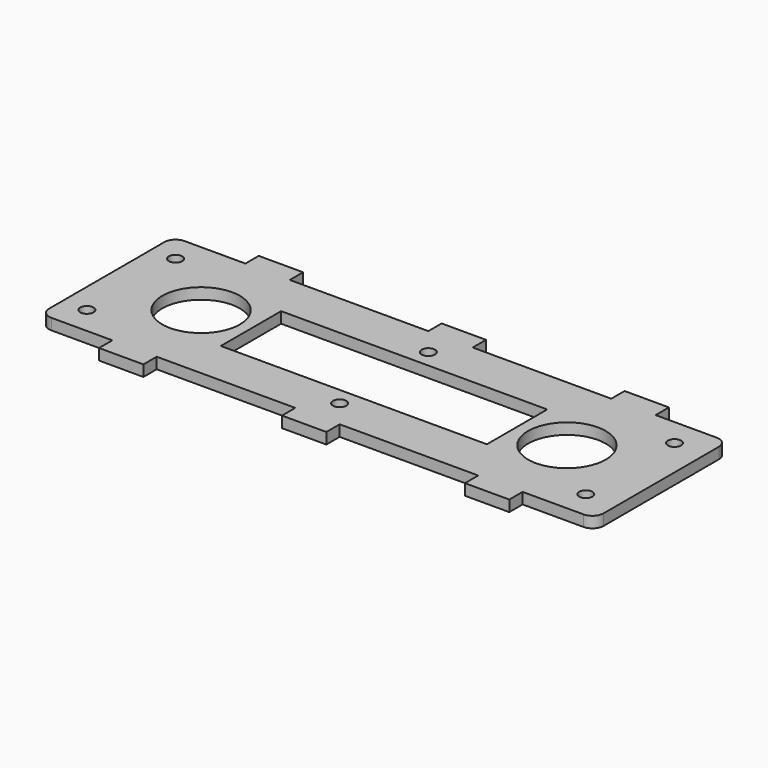
from build123d import *

# Parameters (mm, degrees)
F0_R     = 6
F0_R_2   = 35
F0_W     = 40
F0_H     = 15
F1_DEPTH = 10
F2_W     = 240
F2_H     = 68
F3_DEPTH = 25


with BuildPart() as f1:
    # F0 (on Top) → F1 (new body)
    with BuildSketch(Plane.XY):
        with BuildLine():
            ThreePointArc((0, 10), (2.928932, 2.928932), (10, 0))
            Line((10, 0), (65, 0))
            Line((65, 0), (105, 0))
            Line((105, 0), (230, 0))
            Line((230, 0), (270, 0))
            Line((270, 0), (395, 0))
            Line((395, 0), (435, 0))
            Line((435, 0), (490, 0))
            ThreePointArc((490, 0), (497.071068, 2.928932), (500, 10))
            Line((500, 10), (500, 140))
            ThreePointArc((500, 140), (497.071068, 147.071068), (490, 150))
            Line((490, 150), (435, 150))
            Line((435, 150), (395, 150))
            Line((395, 150), (270, 150))
            Line((270, 150), (230, 150))
            Line((230, 150), (105, 150))
            Line((105, 150), (65, 150))
            Line((65, 150), (10, 150))
            ThreePointArc((10, 150), (2.928932, 147.071068), (0, 140))
            Line((0, 140), (0, 10))
        make_face()
        with Locations((22, 25)):
            Circle(F0_R, mode=Mode.SUBTRACT)
        with Locations((250, 25)):
            Circle(F0_R, mode=Mode.SUBTRACT)
        with Locations((472, 25)):
            Circle(F0_R, mode=Mode.SUBTRACT)
        with Locations((85, 75)):
            Circle(F0_R_2, mode=Mode.SUBTRACT)
        with Locations((22, 125)):
            Circle(F0_R, mode=Mode.SUBTRACT)
        with Locations((415, 75)):
            Circle(F0_R_2, mode=Mode.SUBTRACT)
        with Locations((250, 125)):
            Circle(F0_R, mode=Mode.SUBTRACT)
        with Locations((472, 125)):
            Circle(F0_R, mode=Mode.SUBTRACT)
        with Locations((85, -7.5)):
            Rectangle(F0_W, F0_H)
        with Locations((250, -7.5)):
            Rectangle(F0_W, F0_H)
        with Locations((85, 157.5)):
            Rectangle(F0_W, F0_H)
        with Locations((415, -7.5)):
            Rectangle(F0_W, F0_H)
        with Locations((250, 157.5)):
            Rectangle(F0_W, F0_H)
        with Locations((415, 157.5)):
            Rectangle(F0_W, F0_H)
    extrude(amount=F1_DEPTH)

    # F2 (on face) → F3 (cut)
    with BuildSketch(Plane.XY.offset(10)):
        with Locations((250, 75)):
            Rectangle(F2_W, F2_H)
    extrude(amount=-F3_DEPTH, mode=Mode.SUBTRACT)


solid = f1.part
